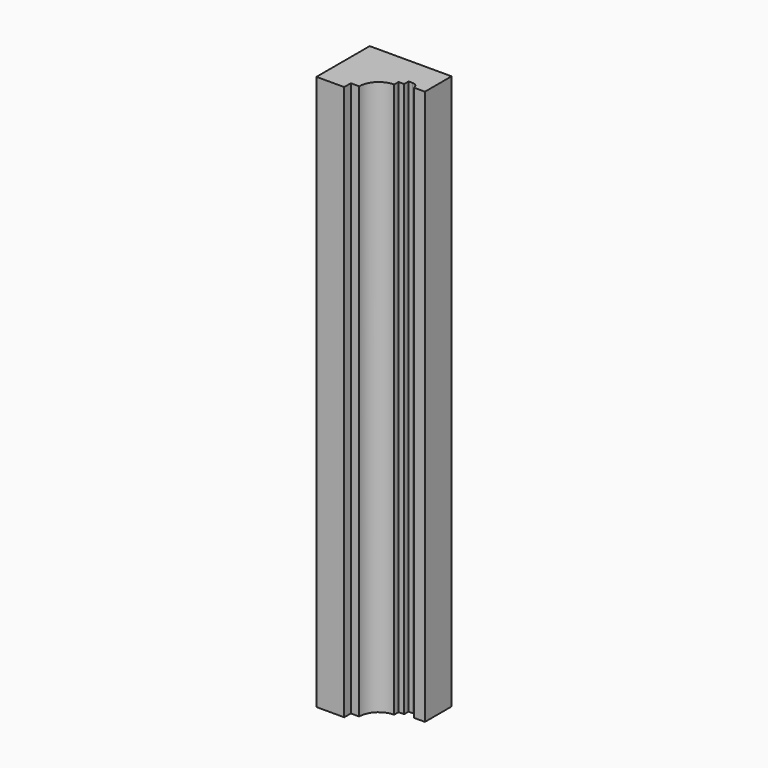
from build123d import *

# Parameters (mm, degrees)
F1_DEPTH = 1000


with BuildPart() as f1:
    # F0 (on Top) → F1 (new body)
    with BuildSketch(Plane.XY):
        with BuildLine():
            Line((51.771715, 105.701796), (51.771715, 165.701796))
            Line((51.771715, 165.701796), (-95.728285, 165.701796))
            Line((-95.728285, 165.701796), (-95.728285, 45.701796))
            Line((-95.728285, 45.701796), (-45.728285, 45.701796))
            Line((-45.728285, 45.701796), (-45.728285, 60.701796))
            Line((-45.728285, 60.701796), (-30.728285, 60.701796))
            ThreePointArc((-30.728285, 60.701796), (-20.477022, 85.450533), (4.271715, 95.701796))
            Line((4.271715, 95.701796), (4.271715, 105.701796))
            Line((4.271715, 105.701796), (14.271715, 105.701796))
            Line((14.271715, 105.701796), (14.271715, 115.701796))
            Line((14.271715, 115.701796), (21.771715, 115.701796))
            ThreePointArc((21.771715, 115.701796), (28.842783, 112.772864), (31.771715, 105.701796))
            Line((31.771715, 105.701796), (51.771715, 105.701796))
        make_face()
    extrude(amount=F1_DEPTH)


solid = f1.part
